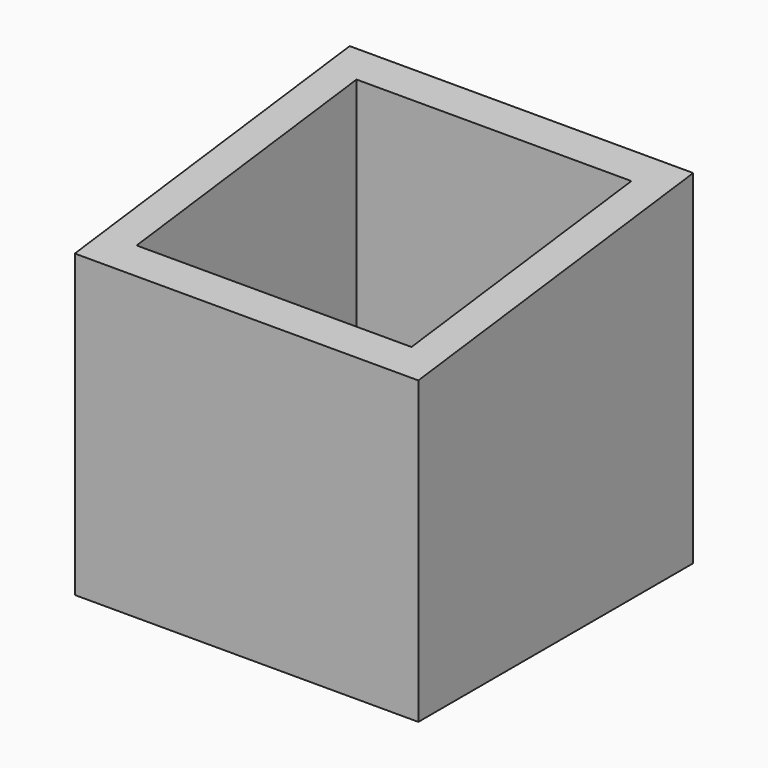
from build123d import *

# Parameters (mm, degrees)
F0_W     = 25.4
F0_H     = 25.4
F1_DEPTH = 12.7
F2_T     = -2.54
F4_DEPTH = 25.401


with BuildPart() as f1:
    # F0 (on Front) → F1 (new body, symmetric)
    with BuildSketch(Plane.XZ):
        Rectangle(F0_W, F0_H)
    extrude(amount=F1_DEPTH, both=True)

    # F2
    f2_openings = [f1.faces().sort_by_distance(p)[0] for p in [
        (0, 0, 12.7),
        (0, 0, -12.7),
    ]]
    offset(amount=F2_T, openings=f2_openings)

    # F3 (on face) → F4 (cut, through all)
    with BuildSketch(Plane.YZ.offset(12.7)):
        Polygon((-12.7, 12.7), (-12.7, 9.525), (12.7, 12.7), align=None)
    extrude(amount=-F4_DEPTH, mode=Mode.SUBTRACT)


solid = f1.part
